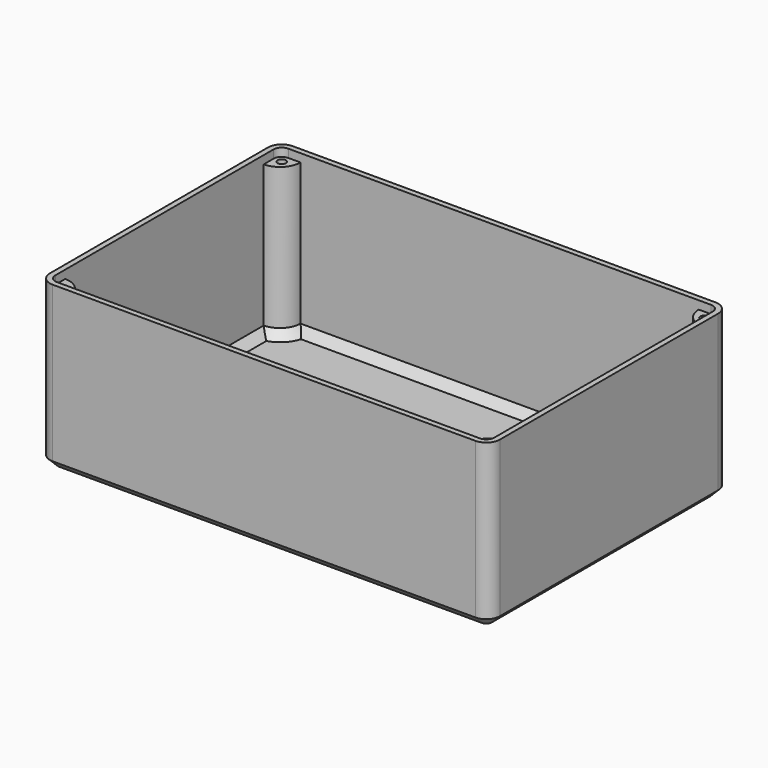
from build123d import *

# Parameters (mm, degrees)
PAD_DEPTH               = 60
THICKNESS_T             = -2
SKETCH001_R             = 1.5
PAD001_DEPTH            = 57
SKETCH001_MIRRORED_2_R  = 1.5
PAD001_MIRRORED_2_DEPTH = 57
CHAMFER001_SIZE         = 3
CHAMFER003_SIZE         = 3


with BuildPart() as part:
    # Sketch → Pad (new body)
    with BuildSketch(Plane.XY):
        with BuildLine():
            Line((-82.5, 50), (-82.5, -50))
            ThreePointArc((-82.5, -50), (-81.035534, -53.535534), (-77.5, -55))
            Line((-77.5, -55), (77.5, -55))
            ThreePointArc((77.5, -55), (81.035534, -53.535534), (82.5, -50))
            Line((82.5, -50), (82.5, 50))
            ThreePointArc((82.5, 50), (81.035534, 53.535534), (77.5, 55))
            Line((77.5, 55), (-77.5, 55))
            ThreePointArc((-77.5, 55), (-81.035534, 53.535534), (-82.5, 50))
        make_face()
    extrude(amount=PAD_DEPTH)

    # Thickness
    thickness_openings = [part.faces().sort_by_distance(p)[0] for p in [
        (0, 0, 60),
    ]]
    offset(amount=THICKNESS_T, openings=thickness_openings)

    # Sketch001 → Pad001 (join)
    with BuildSketch(Plane.XY):
        with BuildLine():
            Line((-80.5, 53), (-73, 53))
            ThreePointArc((-80.5, 45.5), (-75.196699, 47.696699), (-73, 53))
            Line((-80.5, 53), (-80.5, 45.5))
        make_face()
        with Locations((-77.5, 50)):
            Circle(SKETCH001_R, mode=Mode.SUBTRACT)
    pad001 = extrude(amount=PAD001_DEPTH)

    # Sketch001 Mirrored 2 → Pad001 Mirrored 2 (add)
    with BuildSketch(Plane(origin=(0, 0, 0), x_dir=(-1, 0, 0), z_dir=(0, 0, -1))):
        with BuildLine():
            Line((-80.5, 53), (-73, 53))
            ThreePointArc((-80.5, 45.5), (-75.196699, 47.696699), (-73, 53))
            Line((-80.5, 53), (-80.5, 45.5))
        make_face()
        with Locations((-77.5, 50)):
            Circle(SKETCH001_MIRRORED_2_R, mode=Mode.SUBTRACT)
    pad001_mirrored_2 = extrude(amount=-PAD001_MIRRORED_2_DEPTH)

    # Mirrored001: Pad001, Pad001 Mirrored 2 across Sketch001 H_Axis
    add(pad001.mirror(Plane.ZX))
    add(pad001_mirrored_2.mirror(Plane.ZX))

    # Chamfer001
    chamfer001_edges = [part.edges().sort_by_distance(p)[0] for p in [
        (-75.196699, 47.696699, 2),
        (75.196699, 47.696699, 2),
        (75.196699, -47.696699, 2),
        (-75.196699, -47.696699, 2),
        (0, 53, 2),
        (-80.5, 0, 2),
        (0, -53, 2),
        (80.5, 0, 2),
    ]]
    chamfer(chamfer001_edges, length=CHAMFER001_SIZE)

    # Chamfer003
    chamfer003_edges = [part.edges().sort_by_distance(p)[0] for p in [
        (0, -55, 0),
    ]]
    chamfer(chamfer003_edges, length=CHAMFER003_SIZE)


solid = part.part
